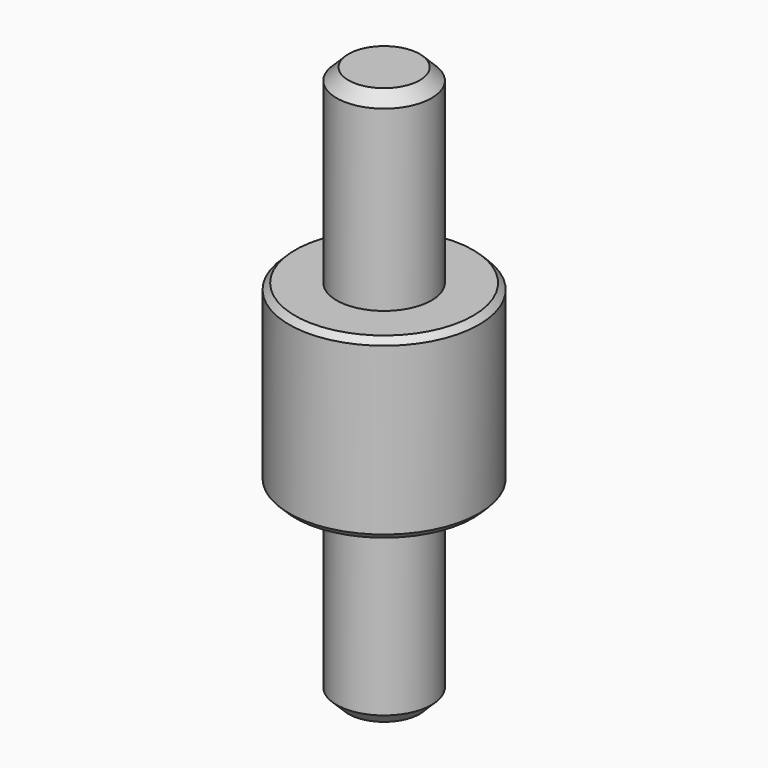
from build123d import *

# Parameters (mm, degrees)
F2_SIZE = 0.5
F3_SIZE = 1


with BuildPart() as f1:
    # F0 (on Front) → F1 (revolve)
    with BuildSketch(Plane.XZ):
        Polygon((0, 47), (0, 0), (4, 0), (4, 16), (8, 16), (8, 31), (4, 31), (4, 47), align=None)
    revolve(axis=Axis((0, 0, 23.5), (0, 0, 1)))

    # F2
    f2_edges = [f1.edges().sort_by_distance(p)[0] for p in [
        (-8, 0, 31),
        (-8, 0, 16),
    ]]
    chamfer(f2_edges, length=F2_SIZE)

    # F3
    f3_edges = [f1.edges().sort_by_distance(p)[0] for p in [
        (-4, 0, 47),
        (-4, 0, 0),
    ]]
    chamfer(f3_edges, length=F3_SIZE)


solid = f1.part
